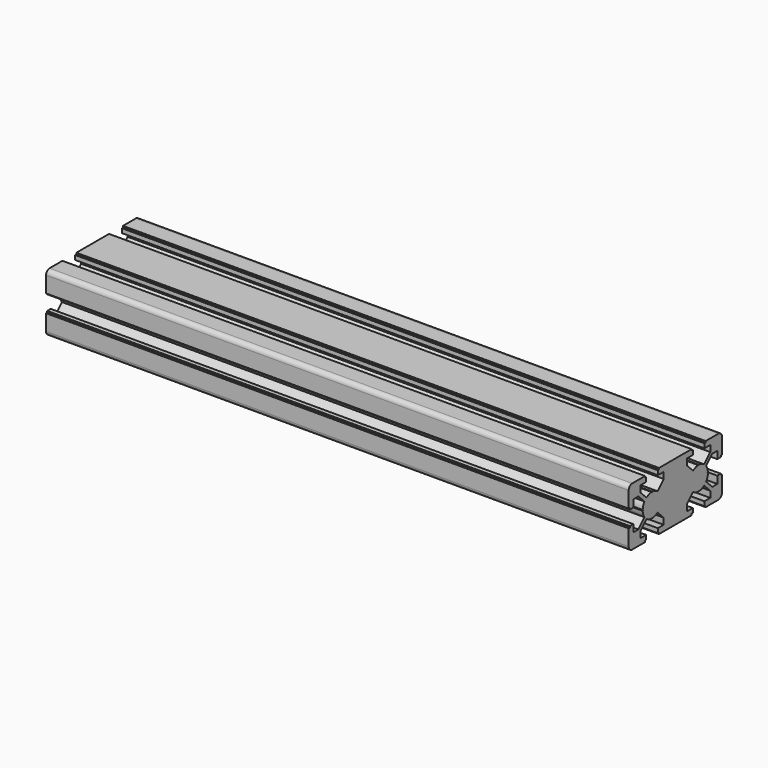
from build123d import *

# Parameters (mm, degrees)
F1_DEPTH = 200


with BuildPart() as f1:
    # F0 (on Right) → F1 (new body, symmetric)
    with BuildSketch(Plane.YZ):
        with BuildLine():
            Line((14.816626, -18.709014), (14.816626, -7.709014))
            Line((14.816626, -7.709014), (13.816626, -7.709014))
            Line((13.816626, -7.709014), (13.816626, -6.709014))
            Line((13.816626, -6.709014), (10.816626, -6.709014))
            Line((10.816626, -6.709014), (10.816626, -11.709014))
            Line((10.816626, -11.709014), (6.513682, -11.709014))
            Line((6.513682, -11.709014), (1.258007, -6.453339))
            ThreePointArc((1.258007, -6.453339), (2.36777, -4.351026), (2.810756, -2.01542))
            Line((2.810756, -2.01542), (2.516626, -1.709014))
            Line((2.516626, -1.709014), (2.810756, -1.402608))
            ThreePointArc((2.810756, -1.402608), (2.36777, 0.932998), (1.258007, 3.03531))
            Line((1.258007, 3.03531), (6.513682, 8.290986))
            Line((6.513682, 8.290986), (10.816626, 8.290986))
            Line((10.816626, 8.290986), (10.816626, 3.290986))
            Line((10.816626, 3.290986), (13.816626, 3.290986))
            Line((13.816626, 3.290986), (13.816626, 4.290986))
            Line((13.816626, 4.290986), (14.816626, 4.290986))
            Line((14.816626, 4.290986), (14.816626, 15.290986))
            ThreePointArc((14.816626, 15.290986), (13.937946, 17.412306), (11.816626, 18.290986))
            Line((11.816626, 18.290986), (0.816626, 18.290986))
            Line((0.816626, 18.290986), (0.816626, 17.290986))
            Line((0.816626, 17.290986), (-0.183374, 17.290986))
            Line((-0.183374, 17.290986), (-0.183374, 14.290986))
            Line((-0.183374, 14.290986), (4.816626, 14.290986))
            Line((4.816626, 14.290986), (4.816626, 9.988042))
            Line((4.816626, 9.988042), (-0.43905, 4.732367))
            ThreePointArc((-0.43905, 4.732367), (-2.541362, 5.84213), (-4.876968, 6.285116))
            Line((-4.876968, 6.285116), (-5.183374, 5.990986))
            Line((-5.183374, 5.990986), (-5.48978, 6.285116))
            ThreePointArc((-5.48978, 6.285116), (-7.825386, 5.84213), (-9.927699, 4.732367))
            Line((-9.927699, 4.732367), (-15.183374, 9.988042))
            Line((-15.183374, 9.988042), (-15.183374, 14.290986))
            Line((-15.183374, 14.290986), (-10.183374, 14.290986))
            Line((-10.183374, 14.290986), (-10.183374, 17.290986))
            Line((-10.183374, 17.290986), (-11.183374, 17.290986))
            Line((-11.183374, 17.290986), (-11.183374, 18.290986))
            Line((-11.183374, 18.290986), (-39.183374, 18.290986))
            Line((-39.183374, 18.290986), (-39.183374, 17.290986))
            Line((-39.183374, 17.290986), (-40.183374, 17.290986))
            Line((-40.183374, 17.290986), (-40.183374, 14.290986))
            Line((-40.183374, 14.290986), (-35.183374, 14.290986))
            Line((-35.183374, 14.290986), (-35.183374, 9.988042))
            Line((-35.183374, 9.988042), (-40.43905, 4.732367))
            ThreePointArc((-40.43905, 4.732367), (-42.541362, 5.84213), (-44.876968, 6.285116))
            Line((-44.876968, 6.285116), (-45.183374, 5.990986))
            Line((-45.183374, 5.990986), (-45.48978, 6.285116))
            ThreePointArc((-45.48978, 6.285116), (-47.825386, 5.84213), (-49.927699, 4.732367))
            Line((-49.927699, 4.732367), (-55.183374, 9.988042))
            Line((-55.183374, 9.988042), (-55.183374, 14.290986))
            Line((-55.183374, 14.290986), (-50.183374, 14.290986))
            Line((-50.183374, 14.290986), (-50.183374, 17.290986))
            Line((-50.183374, 17.290986), (-51.183374, 17.290986))
            Line((-51.183374, 17.290986), (-51.183374, 18.290986))
            Line((-51.183374, 18.290986), (-62.183374, 18.290986))
            ThreePointArc((-62.183374, 18.290986), (-64.304694, 17.412306), (-65.183374, 15.290986))
            Line((-65.183374, 15.290986), (-65.183374, 4.290986))
            Line((-65.183374, 4.290986), (-64.183374, 4.290986))
            Line((-64.183374, 4.290986), (-64.183374, 3.290986))
            Line((-64.183374, 3.290986), (-61.183374, 3.290986))
            Line((-61.183374, 3.290986), (-61.183374, 8.290986))
            Line((-61.183374, 8.290986), (-56.88043, 8.290986))
            Line((-56.88043, 8.290986), (-51.624755, 3.03531))
            ThreePointArc((-51.624755, 3.03531), (-52.734518, 0.932998), (-53.177504, -1.402608))
            Line((-53.177504, -1.402608), (-52.883374, -1.709014))
            Line((-52.883374, -1.709014), (-53.177504, -2.01542))
            ThreePointArc((-53.177504, -2.01542), (-52.734518, -4.351026), (-51.624755, -6.453339))
            Line((-51.624755, -6.453339), (-56.88043, -11.709014))
            Line((-56.88043, -11.709014), (-61.183374, -11.709014))
            Line((-61.183374, -11.709014), (-61.183374, -6.709014))
            Line((-61.183374, -6.709014), (-64.183374, -6.709014))
            Line((-64.183374, -6.709014), (-64.183374, -7.709014))
            Line((-64.183374, -7.709014), (-65.183374, -7.709014))
            Line((-65.183374, -7.709014), (-65.183374, -18.709014))
            ThreePointArc((-65.183374, -18.709014), (-64.304694, -20.830334), (-62.183374, -21.709014))
            Line((-62.183374, -21.709014), (-51.183374, -21.709014))
            Line((-51.183374, -21.709014), (-51.183374, -20.709014))
            Line((-51.183374, -20.709014), (-50.183374, -20.709014))
            Line((-50.183374, -20.709014), (-50.183374, -17.709014))
            Line((-50.183374, -17.709014), (-55.183374, -17.709014))
            Line((-55.183374, -17.709014), (-55.183374, -13.40607))
            Line((-55.183374, -13.40607), (-49.927699, -8.150395))
            ThreePointArc((-49.927699, -8.150395), (-47.825386, -9.260158), (-45.48978, -9.703144))
            Line((-45.48978, -9.703144), (-45.183374, -9.409014))
            Line((-45.183374, -9.409014), (-44.876968, -9.703144))
            ThreePointArc((-44.876968, -9.703144), (-42.541362, -9.260158), (-40.43905, -8.150395))
            Line((-40.43905, -8.150395), (-35.183374, -13.40607))
            Line((-35.183374, -13.40607), (-35.183374, -17.709014))
            Line((-35.183374, -17.709014), (-40.183374, -17.709014))
            Line((-40.183374, -17.709014), (-40.183374, -20.709014))
            Line((-40.183374, -20.709014), (-39.183374, -20.709014))
            Line((-39.183374, -20.709014), (-39.183374, -21.709014))
            Line((-39.183374, -21.709014), (-11.183374, -21.709014))
            Line((-11.183374, -21.709014), (-11.183374, -20.709014))
            Line((-11.183374, -20.709014), (-10.183374, -20.709014))
            Line((-10.183374, -20.709014), (-10.183374, -17.709014))
            Line((-10.183374, -17.709014), (-15.183374, -17.709014))
            Line((-15.183374, -17.709014), (-15.183374, -13.40607))
            Line((-15.183374, -13.40607), (-9.927699, -8.150395))
            ThreePointArc((-9.927699, -8.150395), (-7.825386, -9.260158), (-5.48978, -9.703144))
            Line((-5.48978, -9.703144), (-5.183374, -9.409014))
            Line((-5.183374, -9.409014), (-4.876968, -9.703144))
            ThreePointArc((-4.876968, -9.703144), (-2.541362, -9.260158), (-0.43905, -8.150395))
            Line((-0.43905, -8.150395), (4.816626, -13.40607))
            Line((4.816626, -13.40607), (4.816626, -17.709014))
            Line((4.816626, -17.709014), (-0.183374, -17.709014))
            Line((-0.183374, -17.709014), (-0.183374, -20.709014))
            Line((-0.183374, -20.709014), (0.816626, -20.709014))
            Line((0.816626, -20.709014), (0.816626, -21.709014))
            Line((0.816626, -21.709014), (11.816626, -21.709014))
            ThreePointArc((11.816626, -21.709014), (13.937946, -20.830334), (14.816626, -18.709014))
        make_face()
    extrude(amount=F1_DEPTH, both=True)


solid = f1.part
